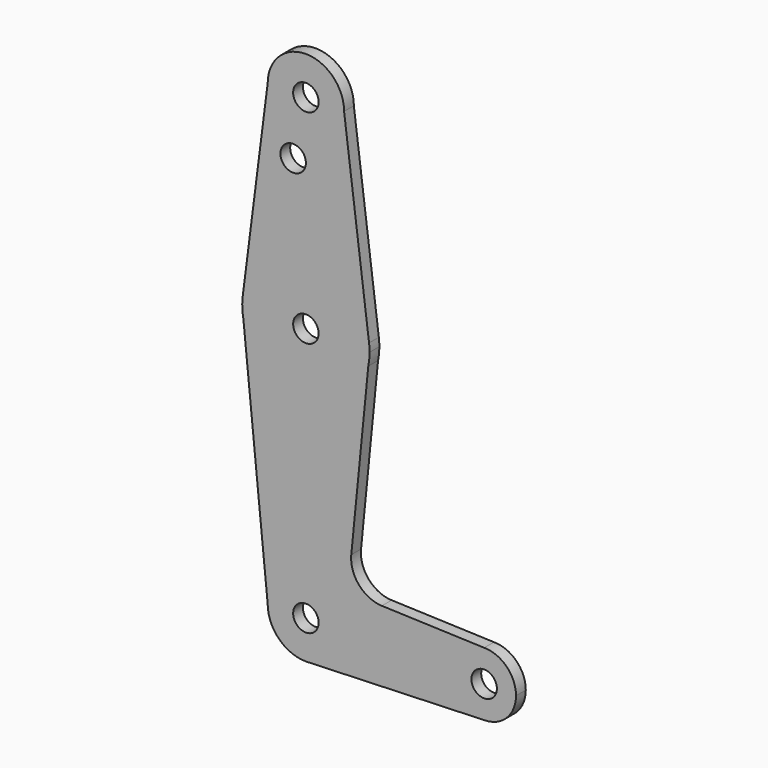
from build123d import *

# Parameters (mm, degrees)
F0_R     = 3.175
F1_DEPTH = 3.048


with BuildPart() as f1:
    # F0 (on Front) → F1 (new body)
    with BuildSketch(Plane.XZ):
        with BuildLine():
            ThreePointArc((-9.525, 114.3), (0, 104.775), (9.525, 114.3))
            ThreePointArc((9.525, 114.3), (0, 123.825), (-9.525, 114.3))
        make_face()
        with Locations((0, 114.3)):
            Circle(F0_R, mode=Mode.SUBTRACT)
        with BuildLine():
            Line((15.747457, 65.508289), (9.525, 114.3))
            ThreePointArc((9.525, 114.3), (0, 104.775), (-9.525, 114.3))
            Line((-9.525, 114.3), (-15.747457, 65.508289))
            ThreePointArc((-15.747457, 65.508289), (0, 79.375), (15.747457, 65.508289))
        make_face()
        with Locations((-3.175, 99.886943)):
            Circle(F0_R, mode=Mode.SUBTRACT)
        with BuildLine():
            ThreePointArc((15.875, 63.5), (15.843082, 64.506168), (15.747457, 65.508289))
            ThreePointArc((15.747457, 65.508289), (0, 79.375), (-15.747457, 65.508289))
            ThreePointArc((-15.747457, 65.508289), (-15.86451, 62.922978), (-15.559949, 60.353001))
            ThreePointArc((-15.559949, 60.353001), (0, 47.625), (15.559949, 60.353001))
            ThreePointArc((15.559949, 60.353001), (15.796041, 61.918635), (15.875, 63.5))
        make_face()
        with Locations((0, 63.5)):
            Circle(F0_R, mode=Mode.SUBTRACT)
        with BuildLine():
            ThreePointArc((15.559949, 60.353001), (0, 47.625), (-15.559949, 60.353001))
            Line((-15.559949, 60.353001), (-9.525, 0))
            ThreePointArc((-9.525, 0), (0, 9.525), (9.525, 0))
            ThreePointArc((9.525, 0), (6.970557, -6.491299), (0.677344, -9.500886))
            Line((0.677344, -9.500886), (44.732405, -7.932475))
            ThreePointArc((44.732405, -7.932475), (36.513756, -0.141225), (44.45, 7.9375))
            Line((44.45, 7.9375), (18.943498, 8.848446))
            ThreePointArc((18.943498, 8.848446), (13.240302, 11.562702), (11.315899, 17.57854))
            Line((11.315899, 17.57854), (15.559949, 60.353001))
        make_face()
        with BuildLine():
            ThreePointArc((9.525, 0), (0, 9.525), (-9.525, 0))
            ThreePointArc((-9.525, 0), (-6.735192, -6.735192), (0, -9.525))
            Line((0, -9.525), (0.677344, -9.500886))
            ThreePointArc((0.677344, -9.500886), (6.970557, -6.491299), (9.525, 0))
        make_face()
        Circle(F0_R, mode=Mode.SUBTRACT)
        with BuildLine():
            Line((0.677344, -9.500886), (0, -9.525))
            ThreePointArc((0, -9.525), (0.338886, -9.51897), (0.677344, -9.500886))
        make_face()
        with BuildLine():
            ThreePointArc((52.3875, 0), (50.06266, 5.61266), (44.45, 7.9375))
            ThreePointArc((44.45, 7.9375), (36.513756, -0.141225), (44.732405, -7.932475))
            ThreePointArc((44.732405, -7.932475), (50.161633, -5.51191), (52.3875, 0))
        make_face()
        with Locations((44.45, 0)):
            Circle(F0_R, mode=Mode.SUBTRACT)
    extrude(amount=F1_DEPTH)


solid = f1.part
